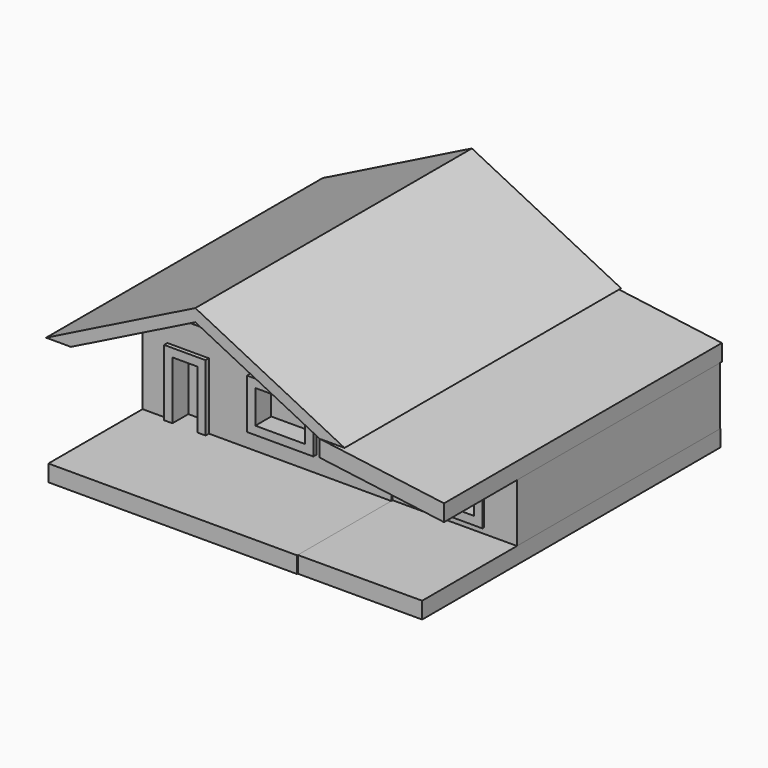
from build123d import *

# Parameters (mm, degrees)
F1_DEPTH       = 596.9
F1_DEPTH_BACK  = 462.28
F2_DEPTH       = 274.32
F2_DEPTH_BACK  = 462.28
F3_DEPTH       = 596.9
F3_DEPTH_BACK  = 467.36
F0_W           = 203.2
F0_H           = 152.4
F4_DEPTH       = 322.58
F4_DEPTH_BACK  = 459.74
F5_DEPTH       = 683.26
F5_DEPTH_BACK  = 454.66
F0_W_2         = 76.2
F0_H_2         = 177.8
F0_W_3         = 152.4
F0_H_3         = 101.6
F0_W_4         = 101.6
F6_DEPTH       = 274.32
F6_DEPTH_BACK  = 452.12
F7_DEPTH       = 335.28
F7_DEPTH_BACK  = 469.9
F8_DEPTH       = 317.5
F8_DEPTH_BACK  = 459.74
F9_DEPTH       = 322.58
F9_DEPTH_BACK  = 467.36
F10_DEPTH      = 680.72
F10_DEPTH_BACK = 462.28


with BuildPart() as f1:
    # F0 (on Front) → F1 (new body, two sides)
    with BuildSketch(Plane.XZ) as f1_sk:
        Polygon((-457.2, 0), (-381, 0), (0, 190.5), (0, 228.6), align=None)
        Polygon((0, 190.5), (381, 0), (457.2, 0), (0, 228.6), align=None)
    extrude(amount=F1_DEPTH)
    extrude(f1_sk.sketch, amount=-F1_DEPTH_BACK)

    # F0 (on Front) → F2 (join, two sides)
    with BuildSketch(Plane.XZ) as f2_sk:
        Polygon((-381, 0), (0, 0), (0, 190.5), align=None)
        Polygon((0, 190.5), (0, 0), (381, 0), align=None)
    extrude(amount=F2_DEPTH)
    extrude(f2_sk.sketch, amount=-F2_DEPTH_BACK)


with BuildPart() as f3:
    # F0 (on Front) → F3 (new body, two sides)
    with BuildSketch(Plane.XZ) as f3_sk:
        Polygon((761.999635, -50.272315), (381, 0), (381, -50.8), (761.999635, -101.072315), align=None)
    extrude(amount=F3_DEPTH)
    extrude(f3_sk.sketch, amount=-F3_DEPTH_BACK)


with BuildPart() as f4:
    # F0 (on Front) → F4 (new body, two sides)
    with BuildSketch(Plane.XZ) as f4_sk:
        Polygon((381, 0), (0, 0), (-381, 0), (-381, -279.4), (-304.8, -279.4), (-304.893786, -76.258677), (-177.8, -76.2), (-177.8, -279.4), (381, -279.4), (381, -50.8), align=None)
        with Locations((50.8, -152.4)):
            Rectangle(F0_W, F0_H, mode=Mode.SUBTRACT)
    extrude(amount=F4_DEPTH)
    extrude(f4_sk.sketch, amount=-F4_DEPTH_BACK)

    # F0 (on Front) → F5 (join, two sides)
    with BuildSketch(Plane.XZ) as f5_sk:
        Polygon((-304.8, -279.4), (-381, -279.4), (-381, -330.2), (381.069871, -329.848167), (381, -279.4), (-177.8, -279.4), (-203.2, -279.4), (-279.4, -279.4), align=None)
    extrude(amount=F5_DEPTH)
    extrude(f5_sk.sketch, amount=-F5_DEPTH_BACK)

    # F0 (on Front) → F6 (join, two sides)
    with BuildSketch(Plane.XZ) as f6_sk:
        with Locations((-241.3, -190.5)):
            Rectangle(F0_W_2, F0_H_2)
        with Locations((50.8, -152.4)):
            Rectangle(F0_W_3, F0_H_3)
        with Locations((584.199635, -186.355176)):
            Rectangle(F0_W_4, F0_H_3)
    extrude(amount=F6_DEPTH)
    extrude(f6_sk.sketch, amount=-F6_DEPTH_BACK)


with BuildPart() as f7:
    # F0 (on Front) → F7 (new body, two sides)
    with BuildSketch(Plane.XZ) as f7_sk:
        Polygon((-304.893786, -76.258677), (-304.8, -279.4), (-279.4, -279.4), (-279.4, -101.6), (-203.2, -101.6), (-203.2, -279.4), (-177.8, -279.4), (-177.8, -76.2), align=None)
        with Locations((50.8, -152.4)):
            Rectangle(F0_W, F0_H)
        with Locations((50.8, -152.4)):
            Rectangle(F0_W_3, F0_H_3, mode=Mode.SUBTRACT)
    extrude(amount=F7_DEPTH)
    extrude(f7_sk.sketch, amount=-F7_DEPTH_BACK)


with BuildPart() as f8:
    # F0 (on Front) → F8 (new body, two sides)
    with BuildSketch(Plane.XZ) as f8_sk:
        Polygon((761.999635, -101.072315), (381, -50.8), (381, -279.4), (761.999635, -278.872315), align=None)
        with Locations((584.199635, -186.355176)):
            Rectangle(F0_W_3, F0_H, mode=Mode.SUBTRACT)
    extrude(amount=F8_DEPTH)
    extrude(f8_sk.sketch, amount=-F8_DEPTH_BACK)


with BuildPart() as f9:
    # F0 (on Front) → F9 (new body, two sides)
    with BuildSketch(Plane.XZ) as f9_sk:
        with Locations((584.199635, -186.355176)):
            Rectangle(F0_W_3, F0_H)
        with Locations((584.199635, -186.355176)):
            Rectangle(F0_W_4, F0_H_3, mode=Mode.SUBTRACT)
    extrude(amount=F9_DEPTH)
    extrude(f9_sk.sketch, amount=-F9_DEPTH_BACK)


with BuildPart() as f10:
    # F0 (on Front) → F10 (new body, two sides)
    with BuildSketch(Plane.XZ) as f10_sk:
        Polygon((761.999635, -278.872315), (381, -279.4), (381.069871, -329.848167), (762.069993, -329.672266), align=None)
    extrude(amount=F10_DEPTH)
    extrude(f10_sk.sketch, amount=-F10_DEPTH_BACK)


solid = Compound([f1.part, f3.part, f4.part, f7.part, f8.part, f9.part, f10.part])
